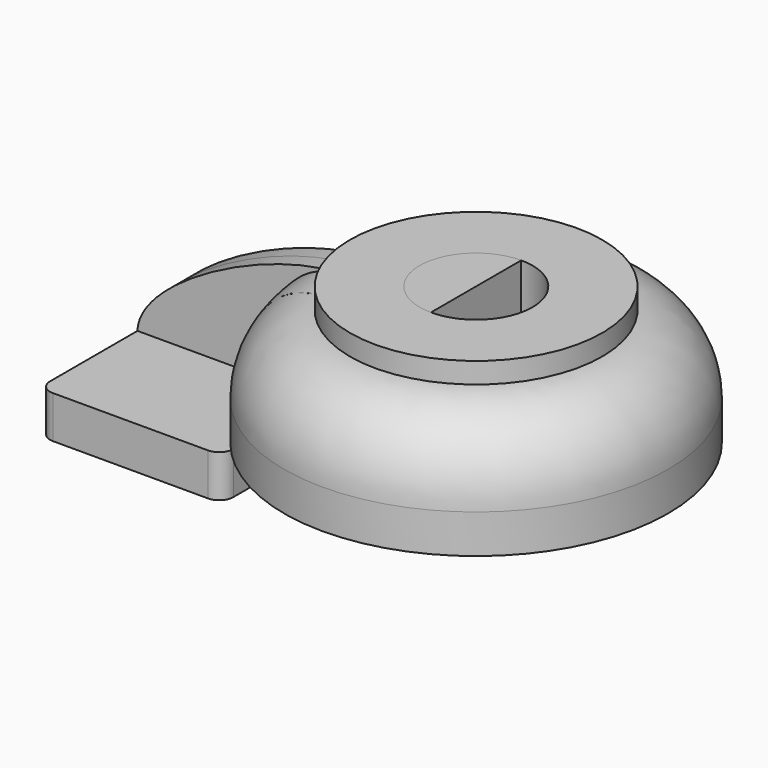
from build123d import *

# Parameters (mm, degrees)
F1_DEPTH = 63.5
F2_DEPTH = 25.4
F3_DEPTH = 7.9375
F5_R     = 6.35


with BuildPart() as f1:
    # F0 (on Front) → F1 (new body, symmetric)
    with BuildSketch(Plane.XZ):
        Polygon((-41.275, 9.525), (-41.275, -9.525), (41.275, -9.525), (41.275, 9.525), (22.225, 9.525), align=None)
    extrude(amount=F1_DEPTH, both=True)

    # F0 (on Front) → F2 (join, symmetric)
    with BuildSketch(Plane.XZ):
        with BuildLine():
            Line((22.225, 9.525), (41.275, 9.525))
            Line((41.275, 9.525), (41.275, 27.0002))
            ThreePointArc((41.275, 27.0002), (45.92468, 38.22552), (57.15, 42.8752))
            Line((57.15, 42.8752), (54.043531, 42.8752))
            Line((54.043531, 42.8752), (54.043531, 61.78677))
            ThreePointArc((54.043531, 61.78677), (31.379386, 50.572028), (22.225, 27.0002))
            Line((22.225, 27.0002), (22.225, 9.525))
        make_face()
        with BuildLine():
            Line((54.043531, 71.4502), (54.043531, 62.093948))
            add(Edge.make_bspline(
                [(54.043531, 62.093948), (55.103452, 62.067899), (56.139747, 62.012036), (57.15, 61.9252)],
                knots=[108.198814, 108.198814, 108.198814, 108.198814, 111.504536, 111.504536, 111.504536, 111.504536], degree=3))
            ThreePointArc((57.15, 61.9252), (55.595224, 61.890575), (54.043531, 61.78677))
            Line((54.043531, 61.78677), (54.043531, 42.8752))
            Line((54.043531, 42.8752), (57.15, 42.8752))
            Line((57.15, 42.8752), (78.274319, 42.8752))
            Line((78.274319, 42.8752), (104.843531, 42.8752))
            Line((104.843531, 42.8752), (104.843531, 71.4502))
            Line((104.843531, 71.4502), (54.043531, 71.4502))
        make_face()
    extrude(amount=F2_DEPTH, both=True)

    # F5
    f5_edges = [f1.edges().sort_by_distance(p)[0] for p in [
        (41.275, -63.5, 0),
        (-41.275, -63.5, 0),
        (41.275, 63.5, 0),
        (-41.275, 63.5, 0),
    ]]
    fillet(f5_edges, radius=F5_R)


with BuildPart() as f3:
    # F0 (on Front) → F3 (new body, symmetric)
    with BuildSketch(Plane.XZ):
        with BuildLine():
            add(Edge.make_bspline(
                [(-41.275, 9.525), (-40.651195, 31.860137), (19.351508, 62.946558), (54.043531, 62.093948)],
                knots=[0, 0, 0, 0, 108.198814, 108.198814, 108.198814, 108.198814], degree=3))
            Line((-41.275, 9.525), (22.225, 9.525))
            Line((22.225, 9.525), (22.225, 27.0002))
            ThreePointArc((22.225, 27.0002), (31.379386, 50.572028), (54.043531, 61.78677))
            Line((54.043531, 61.78677), (54.043531, 62.093948))
        make_face()
    extrude(amount=F3_DEPTH, both=True)


with BuildPart() as f4:
    # F2_face (on face) → F4 (revolve)
    with BuildSketch(Plane(origin=(61.629494, 25.4, 48.016712), x_dir=(1, 0, 0), z_dir=(0, 1, 0))):
        with BuildLine():
            Line((-39.404494, 38.491712), (-39.404494, 21.016512))
            ThreePointArc((-39.404494, 21.016512), (-29.175198, -3.679192), (-4.479494, -13.908488))
            add(Edge.make_bspline(
                [(-7.585963, -14.077236), (-6.526042, -14.051187), (-5.489747, -13.995324), (-4.479494, -13.908488)],
                knots=[108.198814, 108.198814, 108.198814, 108.198814, 111.504536, 111.504536, 111.504536, 111.504536], degree=3))
            Line((-7.585963, -14.077236), (-7.585963, -23.433488))
            Line((-7.585963, -23.433488), (43.214037, -23.433488))
            Line((43.214037, -23.433488), (43.214037, 5.141512))
            Line((43.214037, 5.141512), (-4.479494, 5.141512))
            ThreePointArc((-4.479494, 5.141512), (-15.704814, 9.791192), (-20.354494, 21.016512))
            Line((-20.354494, 21.016512), (-20.354494, 38.491712))
            Line((-20.354494, 38.491712), (-39.404494, 38.491712))
        make_face()
    revolve(axis=Axis((104.843531, 0, 57.1627), (0, 0, -1)))


solid = Compound([f1.part, f3.part, f4.part])
